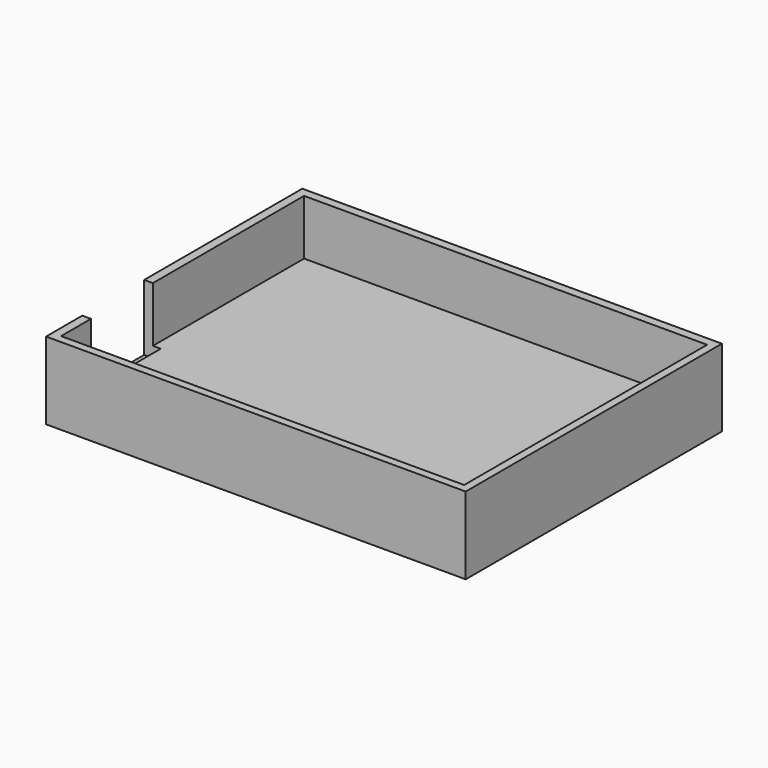
from build123d import *

# Parameters (mm, degrees)
BOX_W           = 76
BOX_H           = 58
BOX_DEPTH       = 14
SKETCH_W        = 73
SKETCH_H        = 55
POCKET_DEPTH    = 10
SKETCH001_W     = 14
SKETCH001_H     = 13
POCKET001_DEPTH = 3


with BuildPart() as part:
    # Box → Box (new body)
    with BuildSketch(Plane.XY):
        with Locations((38, 29)):
            Rectangle(BOX_W, BOX_H)
    extrude(amount=BOX_DEPTH)

    # Sketch (on Face6 of BaseFeature) → Pocket (cut)
    with BuildSketch(Plane.XY.offset(14)):
        with Locations((38.074947, 28.930969)):
            Rectangle(SKETCH_W, SKETCH_H)
    extrude(amount=-POCKET_DEPTH, mode=Mode.SUBTRACT)

    # Sketch001 (on Face1 of Pocket) → Pocket001 (cut)
    with BuildSketch(Plane(origin=(0, 0, 0), x_dir=(0, -1, 0), z_dir=(-1, 0, 0))):
        with Locations((-15.201856, 8.548353)):
            Rectangle(SKETCH001_W, SKETCH001_H)
    extrude(amount=-POCKET001_DEPTH, mode=Mode.SUBTRACT)


solid = part.part
